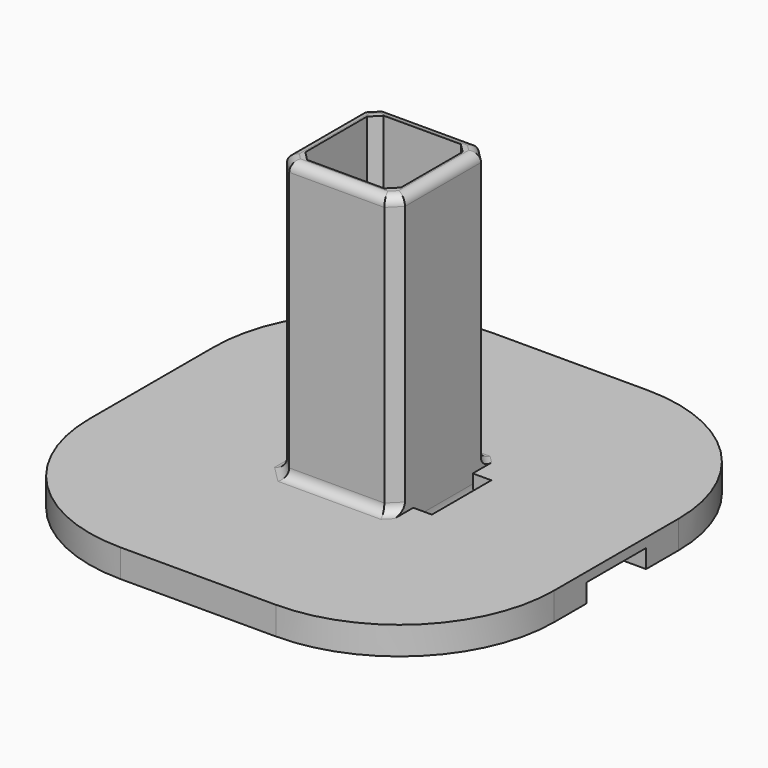
from build123d import *

# Parameters (mm, degrees)
EXTRUDE004_DEPTH                  = 4
EXTRUDE004_ONTO_SKETCH_ROLL_ANGLE = 90
SKETCH003_W                       = 10.3
SKETCH003_H                       = 10.3
EXTRUDE_DEPTH                     = 100
CHAMFER_SIZE                      = 1
EXTRUDE002_DEPTH                  = 3
EXTRUDE003_DEPTH                  = 30
FILLET_R                          = 1


with BuildPart() as extrude004:
    # Sketch as drawn → Extrude004 (new, symmetric)
    with BuildSketch(Plane.XY):
        with BuildLine():
            Line((6.35, 0), (6.35, -1))
            ThreePointArc((6.35, -1), (6.547483, -2.070466), (7.113932, -3))
            Line((7.113932, -3), (25, -3))
            Line((25, -3), (25, -1))
            Line((9.35, -1), (25, -1))
            ThreePointArc((8.35, 0), (8.642893, -0.707107), (9.35, -1))
            Line((6.35, 0), (8.35, 0))
        make_face()
    extrude(amount=EXTRUDE004_DEPTH, both=True)


with BuildPart() as extrude004_1:
    # Extrude004 onto Sketch roll: moved
    add(extrude004.part.rotate(Axis((0, 0, 0), (1, 0, 0)), EXTRUDE004_ONTO_SKETCH_ROLL_ANGLE))


with BuildPart() as extrude004_2:
    # Extrude004 onto Sketch placement: moved
    add(extrude004_1.part)


with BuildPart() as chamfer_body:
    # Sketch003 → Extrude (new body)
    with BuildSketch(Plane.XY):
        Rectangle(SKETCH003_W, SKETCH003_H)
    extrude(amount=EXTRUDE_DEPTH)

    # Chamfer
    chamfer_edges = [chamfer_body.edges().sort_by_distance(p)[0] for p in [
        (-5.15, -5.15, 50),
        (5.15, -5.15, 50),
        (5.15, 5.15, 50),
        (-5.15, 5.15, 50),
    ]]
    chamfer(chamfer_edges, length=CHAMFER_SIZE)


with BuildPart() as extrude002:
    # Sketch001 → Extrude002 (new body)
    with BuildSketch(Plane(origin=(0, 0, 0), x_dir=(1, 0, 0), z_dir=(0, 0, -1))):
        with BuildLine():
            Line((0, 25), (8.360273, 25))
            ThreePointArc((25, 8.360273), (20.126337, 20.126337), (8.360273, 25))
            Line((25, 8.360273), (25, 0))
            Line((25, -8.360273), (25, 0))
            ThreePointArc((8.360273, -25), (20.126337, -20.126337), (25, -8.360273))
            Line((0, -25), (8.360273, -25))
            Line((0, -25), (-8.360273, -25))
            ThreePointArc((-25, -8.360273), (-20.126337, -20.126337), (-8.360273, -25))
            Line((-25, -8.360273), (-25, 0))
            Line((-25, 8.360273), (-25, 0))
            ThreePointArc((-8.360273, 25), (-20.126337, 20.126337), (-25, 8.360273))
            Line((0, 25), (-8.360273, 25))
        make_face()
    extrude(amount=EXTRUDE002_DEPTH)


with BuildPart() as fillet_body:
    # Sketch002 (on Face13 of Extrude002) → Extrude003 (new body)
    with BuildSketch(Plane.XY):
        Polygon((-6.35, 0), (-6.35, -5.11699), (-5.11699, -6.35), (0, -6.35), (5.11699, -6.35), (6.35, -5.11699), (6.35, 0), (6.35, 5.11699), (5.11699, 6.35), (0, 6.35), (-5.11699, 6.35), (-6.35, 5.11699), align=None)
    extrude(amount=EXTRUDE003_DEPTH)

    # Fusion: union Extrude002
    add(extrude002.part)

    # Cut: cut Chamfer body
    add(chamfer_body.part, mode=Mode.SUBTRACT)

    # Cut002: cut Extrude004
    add(extrude004_2.part, mode=Mode.SUBTRACT)

    # Fillet
    fillet_edges = [fillet_body.edges().sort_by_distance(p)[0] for p in [
        (-6.35, 2.558495, 30),
        (-5.733495, -5.733495, 30),
        (-5.733495, 5.733495, 30),
        (2.558495, -6.35, 30),
        (2.558495, 6.35, 30),
        (5.733495, -5.733495, 30),
        (5.733495, 5.733495, 30),
        (6.35, 2.558495, 30),
        (-6.35, -2.558495, 0),
        (-5.733495, -5.733495, 0),
        (-5.733495, 5.733495, 0),
        (-2.558495, -6.35, 0),
        (-2.558495, 6.35, 0),
        (5.733495, -5.733495, 0),
        (5.733495, 5.733495, 0),
    ]]
    fillet(fillet_edges, radius=FILLET_R)


solid = fillet_body.part
